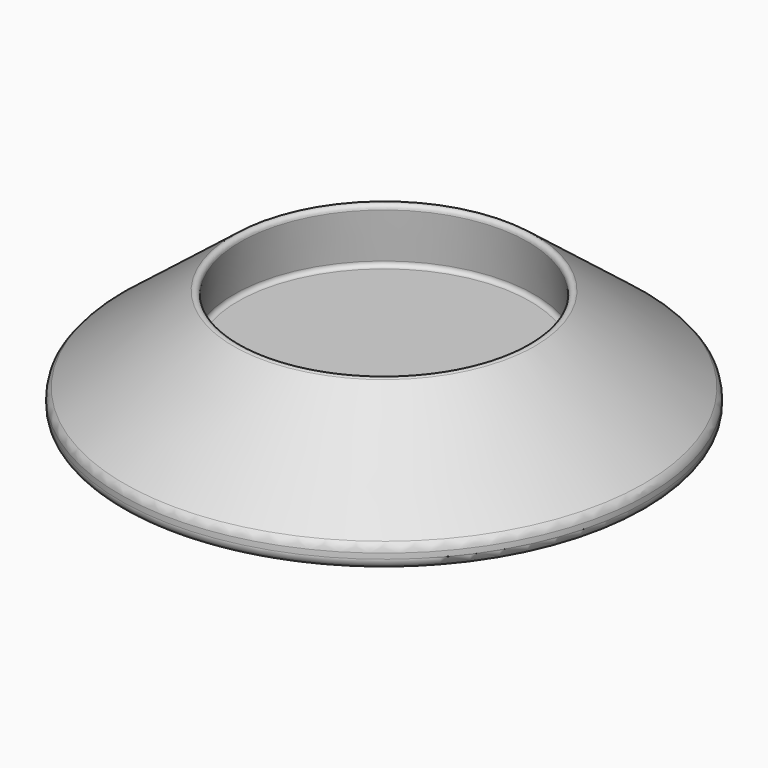
from build123d import *

# Parameters (mm, degrees)
F2_R = 1.27
F3_R = 0.508


with BuildPart() as f1:
    # F0 (on Front) → F1 (revolve)
    with BuildSketch(Plane.XZ):
        Polygon((0, 6.35), (0, 0), (31.75, 0), (31.75, 2.54), (17.145, 13.97), (18.161, 6.35), align=None)
    revolve(axis=Axis((0, 0, 24.993432), (0, 0, 1)))

    # F2
    f2_edges = [f1.edges().sort_by_distance(p)[0] for p in [
        (-31.75, 0, 0),
        (-31.75, 0, 2.54),
        (31.75, 0, 1.27),
    ]]
    fillet(f2_edges, radius=F2_R)

    # F3
    f3_edges = [f1.edges().sort_by_distance(p)[0] for p in [
        (-17.145, 0, 13.97),
        (-18.161, 0, 6.35),
        (17.653, 0, 10.16),
    ]]
    fillet(f3_edges, radius=F3_R)


solid = f1.part
